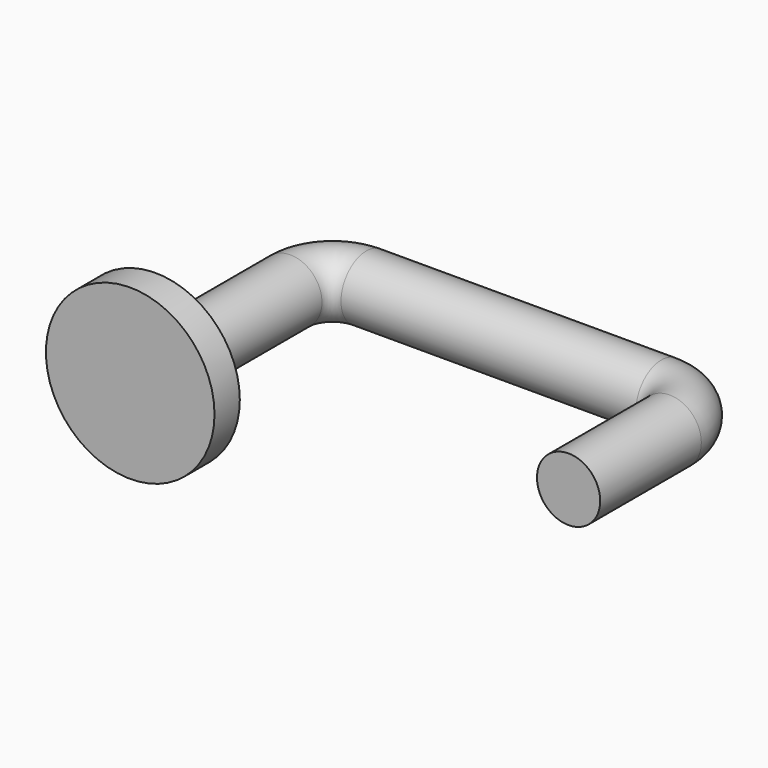
from build123d import *

# Parameters (mm, degrees)
F0_R     = 25.4
F1_DEPTH = 9.525
F3_R     = 9.525


with BuildPart() as f1:
    # F0 (on Front) → F1 (new body)
    with BuildSketch(Plane.XZ):
        Circle(F0_R)
    extrude(amount=F1_DEPTH)

    # F4: sweep along a path in F2
    with BuildLine(Plane.XY) as f4_path:
        Line((0, 0), (0, 50.8))
        ThreePointArc((0, 50.8), (3.7197438789, 59.7802561211), (12.7, 63.5))
        Line((12.7, 63.5), (101.6, 63.5))
        ThreePointArc((101.6, 63.5), (110.5802561211, 59.7802561211), (114.3, 50.8))
        Line((114.3, 50.8), (114.3, 12.7))
    # F3 (on face) → F4 (sweep)
    with BuildSketch(Plane(origin=(0, 0, 0), x_dir=(-1, 0, 0), z_dir=(0, 1, 0))):
        Circle(F3_R)
    sweep(path=f4_path.line)


solid = f1.part
